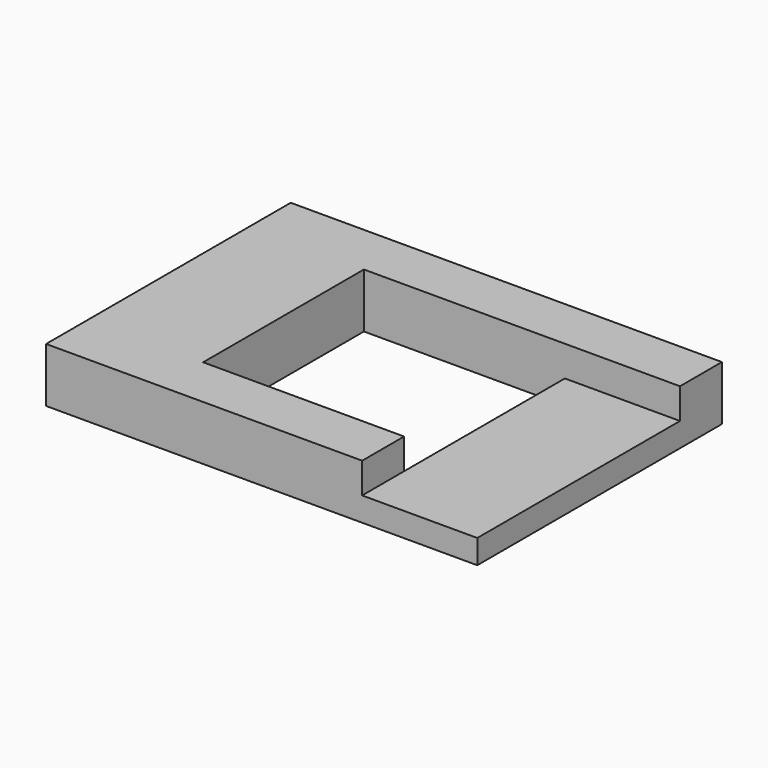
from build123d import *

# Parameters (mm, degrees)
F0_W     = 19.742636
F0_H     = 14
F0_W_2   = 9.2
F0_H_2   = 9.2
F1_DEPTH = 2.5
F2_W     = 10
F2_H     = 20
F3_DEPTH = 1.4


with BuildPart() as f1:
    # F0 (on Top) → F1 (new body)
    with BuildSketch(Plane.XY):
        Rectangle(F0_W, F0_H)
        Rectangle(F0_W_2, F0_H_2, mode=Mode.SUBTRACT)
    extrude(amount=F1_DEPTH)

    # F2 (on face) → F3 (cut)
    with BuildSketch(Plane.XY.offset(2.5)):
        with Locations((9.6, -5.4)):
            Rectangle(F2_W, F2_H)
    extrude(amount=-F3_DEPTH, mode=Mode.SUBTRACT)


solid = f1.part
